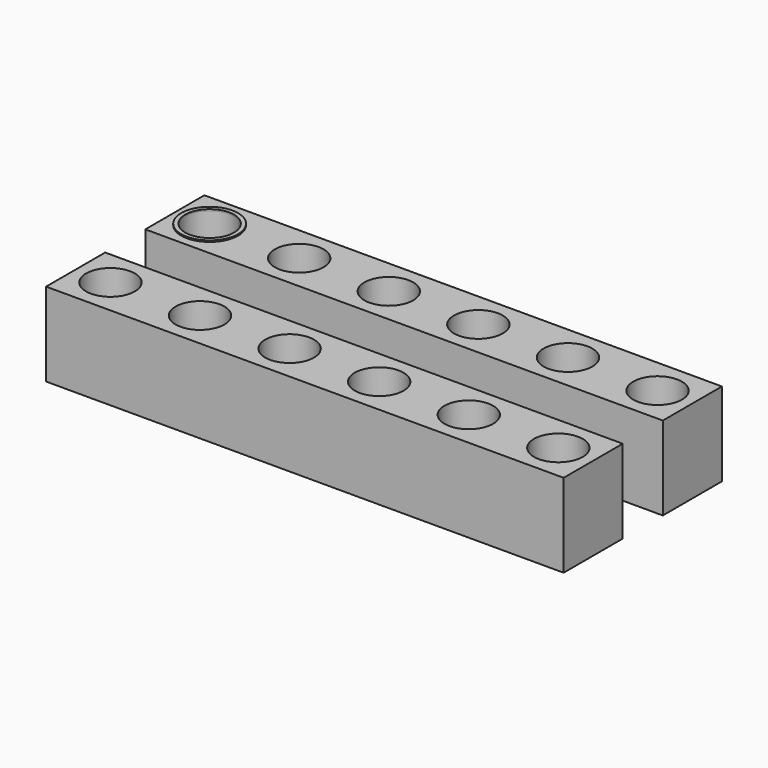
from build123d import *

# Parameters (mm, degrees)
F0_W     = 943.5604150438
F0_H     = 134.6749784425
F0_R     = 44.45
F1_DEPTH = 152.4
F3_R     = 51.8989924825
F3_R_2   = 44.45
F4_DEPTH = 2.54


with BuildPart() as f1:
    # F0 (on Top) → F1 (new body)
    with BuildSketch(Plane.XY):
        with Locations((285.3023739982, 5.6837708689)):
            Rectangle(F0_W, F0_H)
        with Locations((-123.0026260018, 5.6837708689)):
            Circle(F0_R, mode=Mode.SUBTRACT)
        with BuildLine():
            ThreePointArc((84.7693739982, 5.6837708689), (40.3193739982, -38.7662291311), (-4.1306260018, 5.6837708689))
            ThreePointArc((-4.1306260018, 5.6837708689), (40.3193739982, 50.1337708689), (84.7693739982, 5.6837708689))
        make_face(mode=Mode.SUBTRACT)
        with BuildLine():
            ThreePointArc((248.0913739982, 5.6837708689), (203.6413739982, -38.7662291311), (159.1913739982, 5.6837708689))
            ThreePointArc((159.1913739982, 5.6837708689), (203.6413739982, 50.1337708689), (248.0913739982, 5.6837708689))
        make_face(mode=Mode.SUBTRACT)
        with BuildLine():
            ThreePointArc((411.4133739982, 5.6837708689), (366.9633739982, -38.7662291311), (322.5133739982, 5.6837708689))
            ThreePointArc((322.5133739982, 5.6837708689), (366.9633739982, 50.1337708689), (411.4133739982, 5.6837708689))
        make_face(mode=Mode.SUBTRACT)
        with BuildLine():
            ThreePointArc((574.7353739982, 5.6837708689), (530.2853739982, -38.7662291311), (485.8353739982, 5.6837708689))
            ThreePointArc((485.8353739982, 5.6837708689), (530.2853739982, 50.1337708689), (574.7353739982, 5.6837708689))
        make_face(mode=Mode.SUBTRACT)
        with BuildLine():
            ThreePointArc((738.0573739982, 5.6837708689), (693.6073739982, -38.7662291311), (649.1573739982, 5.6837708689))
            ThreePointArc((649.1573739982, 5.6837708689), (693.6073739982, 50.1337708689), (738.0573739982, 5.6837708689))
        make_face(mode=Mode.SUBTRACT)
    extrude(amount=F1_DEPTH)


with BuildPart() as f2_1:
    # F2: copy of F1
    add(f1.part.moved(Location((0, 226.06, 0))))


with BuildPart() as f4:
    # F3 (on face) → F4 (new body)
    with BuildSketch(Plane.XY.offset(152.4)):
        with Locations((-123.0026260018, 231.7437708689)):
            Circle(F3_R)
        with Locations((-123.0026260018, 231.7437708689)):
            Circle(F3_R_2, mode=Mode.SUBTRACT)
    extrude(amount=F4_DEPTH)


solid = Compound([f1.part, f2_1.part, f4.part])
